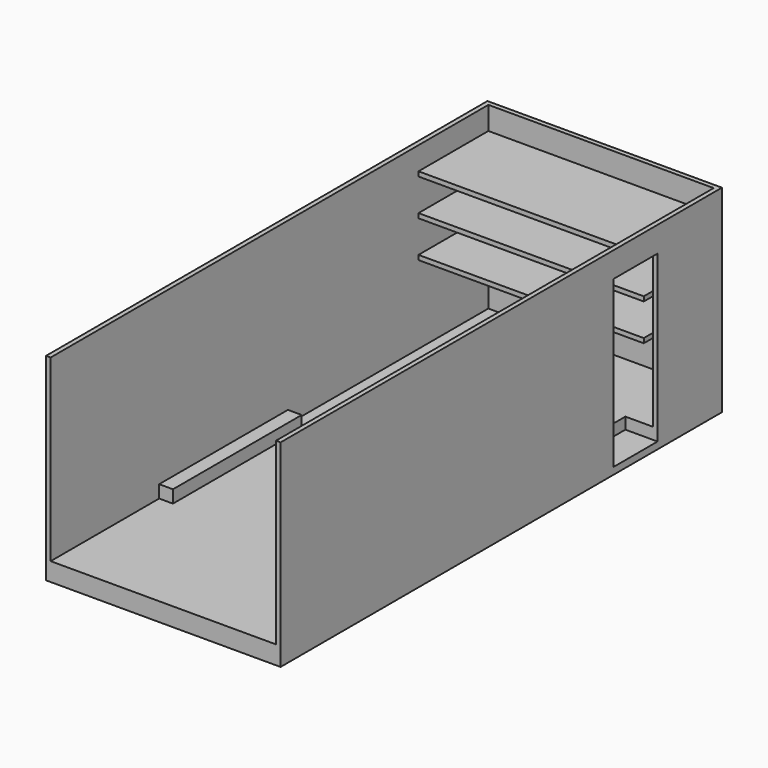
from build123d import *

# Parameters (mm, degrees)
F0_W      = 2590.8
F0_H      = 1981.2
F1_DEPTH  = 6096
F2_W      = 2489.2
F2_H      = 2489.2
F3_DEPTH  = 6045.2
F4_W      = 2489.2
F4_H      = 6045.2
F5_DEPTH  = 76.2
F6_W      = 2590.8
F6_H      = 6096
F7_DEPTH  = 127
F8_W      = 304.8
F8_H      = 609.6
F9_DEPTH  = 139.7
F10_W     = 2590.8
F10_H     = 6096
F11_DEPTH = 76.2
F12_W     = 152.4
F12_H     = 1778
F13_DEPTH = 139.7
F14_W     = 2489.2
F14_H     = 50.8
F15_DEPTH = 965.2
F16_W     = 609.6
F16_H     = 1828.8
F17_DEPTH = 50.801


with BuildPart() as f1:
    # F0 (on Front) → F1 (new body)
    with BuildSketch(Plane.XZ):
        Rectangle(F0_W, F0_H)
    extrude(amount=-F1_DEPTH)

    # F2 (on face) → F3 (cut)
    with BuildSketch(Plane.XZ):
        Rectangle(F2_W, F2_H)
    extrude(amount=-F3_DEPTH, mode=Mode.SUBTRACT)

    # F4 (on face) → F5 (cut)
    with BuildSketch(Plane.XY.offset(990.6)):
        with Locations((0, 3022.6)):
            Rectangle(F4_W, F4_H)
    extrude(amount=-F5_DEPTH, mode=Mode.SUBTRACT)

    # F6 (on face) → F7 (join)
    with BuildSketch(Plane(origin=(0, 0, -990.6), x_dir=(1, 0, 0), z_dir=(0, 0, -1))):
        with Locations((0, -3048)):
            Rectangle(F6_W, F6_H)
    extrude(amount=F7_DEPTH)

    # F8 (on face) → F9 (cut)
    with BuildSketch(Plane.XY.offset(-990.6)):
        with Locations((1092.2, 4902.2)):
            Rectangle(F8_W, F8_H)
    extrude(amount=-F9_DEPTH, mode=Mode.SUBTRACT)

    # F10 (on face) → F11 (join)
    with BuildSketch(Plane(origin=(0, 0, -1117.6), x_dir=(1, 0, 0), z_dir=(0, 0, -1))):
        with Locations((0, -3048)):
            Rectangle(F10_W, F10_H)
    extrude(amount=F11_DEPTH)

    # F12 (on face) → F13 (join)
    with BuildSketch(Plane.XY.offset(-990.6)):
        with Locations((1168.4, 2387.6)):
            Rectangle(F12_W, F12_H)
        with Locations((-1168.4, 2387.6)):
            Rectangle(F12_W, F12_H)
    extrude(amount=F13_DEPTH)

    # F14 (on face) → F15 (join)
    with BuildSketch(Plane.XZ.offset(-6045.2)):
        with Locations((0, 711.2)):
            Rectangle(F14_W, F14_H)
        with Locations((0, 304.8)):
            Rectangle(F14_W, F14_H)
        with Locations((0, -101.6)):
            Rectangle(F14_W, F14_H)
    extrude(amount=F15_DEPTH)

    # F16 (on face) → F17 (cut, through all)
    with BuildSketch(Plane(origin=(1244.6, 0, 0), x_dir=(0, -1, 0), z_dir=(-1, 0, 0))):
        with Locations((-4902.2, -203.2)):
            Rectangle(F16_W, F16_H)
    extrude(amount=-F17_DEPTH, mode=Mode.SUBTRACT)


solid = f1.part
